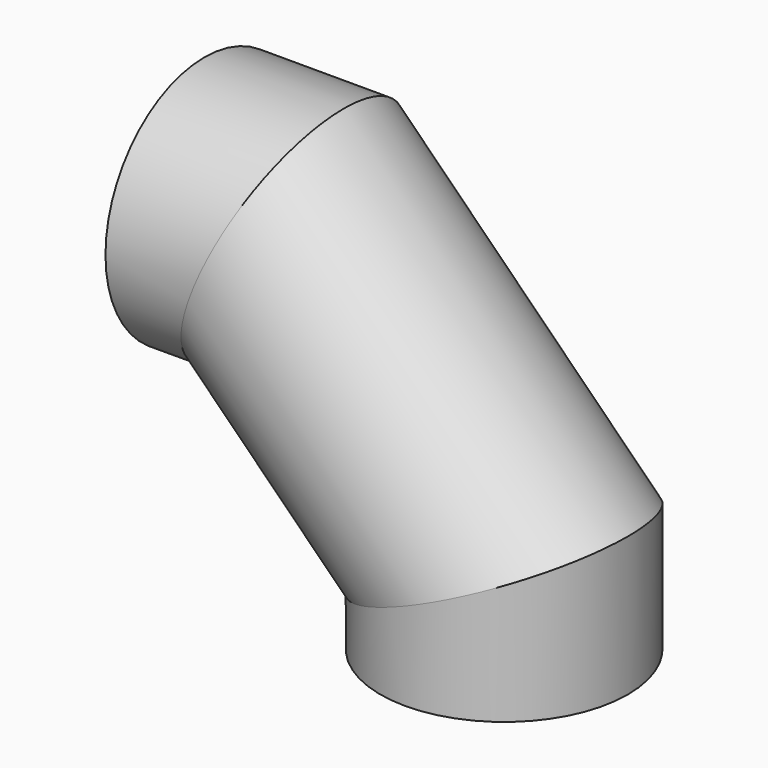
from build123d import *

# Parameters (mm, degrees)
F2_R   = 410.9
F2_R_2 = 400


with BuildPart() as f3:
    # F3: sweep along a path in F0
    with BuildLine(Plane.XZ) as f3_path:
        Line((205, 1200), (497.0562748477, 1200))
        Line((497.0562748477, 1200), (1200, 497.0562748477))
        Line((1200, 497.0562748477), (1200, 205))
    # F2 (on line) → F3 (sweep)
    with BuildSketch(Plane.YZ.offset(205)):
        with Locations((0, 1200)):
            Circle(F2_R)
        with Locations((0, 1200)):
            Circle(F2_R_2, mode=Mode.SUBTRACT)
    sweep(path=f3_path.line, transition=Transition.RIGHT)


solid = f3.part
